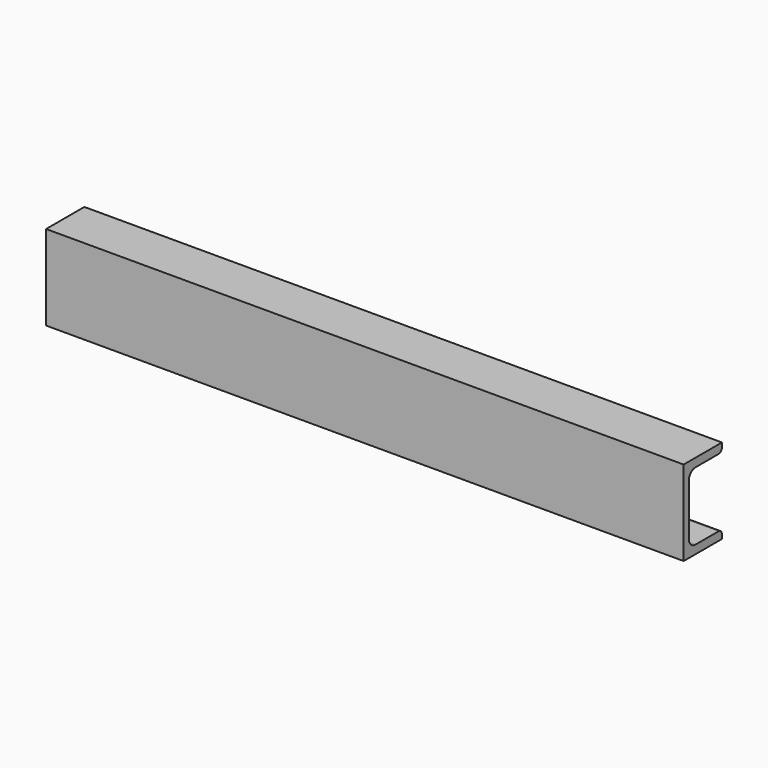
from build123d import *

# Parameters (mm, degrees)
F1_DEPTH = 600


with BuildPart() as f1:
    # F0 (on Right) → F1 (new body)
    with BuildSketch(Plane.YZ):
        with BuildLine():
            Line((0.578396, 40.696685), (0.578396, 44.696685))
            Line((0.578396, 44.696685), (-44.421604, 44.696685))
            Line((-44.421604, 44.696685), (-44.421604, -35.303315))
            Line((-44.421604, -35.303315), (0.578396, -35.303315))
            Line((0.578396, -35.303315), (0.578396, -31.303315))
            ThreePointArc((0.578396, -31.303315), (-0.593176, -28.474888), (-3.421604, -27.303315))
            Line((-3.421604, -27.303315), (-30.421604, -27.303315))
            ThreePointArc((-30.421604, -27.303315), (-36.078458, -24.960169), (-38.421604, -19.303315))
            Line((-38.421604, -19.303315), (-38.421604, 28.696685))
            ThreePointArc((-38.421604, 28.696685), (-36.078458, 34.353539), (-30.421604, 36.696685))
            Line((-30.421604, 36.696685), (-3.421604, 36.696685))
            ThreePointArc((-3.421604, 36.696685), (-0.593176, 37.868258), (0.578396, 40.696685))
        make_face()
    extrude(amount=-F1_DEPTH)


solid = f1.part
